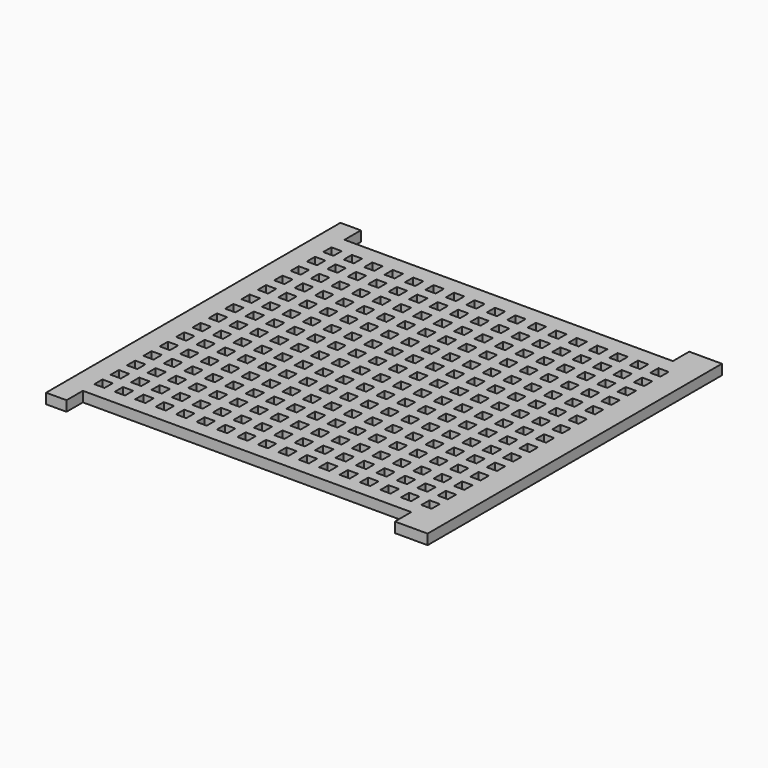
from build123d import *

# Parameters (mm, degrees)
F1_W     = 6.35
F1_H     = 6.35
F1_W_2   = 3.175
F1_H_2   = 3.175
F1_W_3   = 10.16
F2_DEPTH = 3.175


with BuildPart() as f2:
    # F1 (on Top) → F2 (new body)
    with BuildSketch(Plane.XY):
        with Locations((3.175, -3.175)):
            Rectangle(F1_W, F1_H)
        Polygon((0, 101.6), (0, 0), (6.35, 0), (108.3733333333, 0), (118.5333333333, 0), (118.5333333333, 101.6), (108.3733333333, 101.6), (6.35, 101.6), align=None)
        with Locations((7.9375, 6.0325)):
            Rectangle(F1_W_2, F1_H_2, mode=Mode.SUBTRACT)
        with Locations((14.2875, 6.0325)):
            Rectangle(F1_W_2, F1_H_2, mode=Mode.SUBTRACT)
        with Locations((20.6375, 6.0325)):
            Rectangle(F1_W_2, F1_H_2, mode=Mode.SUBTRACT)
        with Locations((26.9875, 6.0325)):
            Rectangle(F1_W_2, F1_H_2, mode=Mode.SUBTRACT)
        with Locations((7.9375, 12.3825)):
            Rectangle(F1_W_2, F1_H_2, mode=Mode.SUBTRACT)
        with Locations((14.2875, 12.3825)):
            Rectangle(F1_W_2, F1_H_2, mode=Mode.SUBTRACT)
        with Locations((7.9375, 18.7325)):
            Rectangle(F1_W_2, F1_H_2, mode=Mode.SUBTRACT)
        with Locations((14.2875, 18.7325)):
            Rectangle(F1_W_2, F1_H_2, mode=Mode.SUBTRACT)
        with Locations((20.6375, 12.3825)):
            Rectangle(F1_W_2, F1_H_2, mode=Mode.SUBTRACT)
        with Locations((26.9875, 12.3825)):
            Rectangle(F1_W_2, F1_H_2, mode=Mode.SUBTRACT)
        with Locations((20.6375, 18.7325)):
            Rectangle(F1_W_2, F1_H_2, mode=Mode.SUBTRACT)
        with Locations((26.9875, 18.7325)):
            Rectangle(F1_W_2, F1_H_2, mode=Mode.SUBTRACT)
        with Locations((33.3375, 6.0325)):
            Rectangle(F1_W_2, F1_H_2, mode=Mode.SUBTRACT)
        with Locations((39.6875, 6.0325)):
            Rectangle(F1_W_2, F1_H_2, mode=Mode.SUBTRACT)
        with Locations((46.0375, 6.0325)):
            Rectangle(F1_W_2, F1_H_2, mode=Mode.SUBTRACT)
        with Locations((52.3875, 6.0325)):
            Rectangle(F1_W_2, F1_H_2, mode=Mode.SUBTRACT)
        with Locations((58.7375, 6.0325)):
            Rectangle(F1_W_2, F1_H_2, mode=Mode.SUBTRACT)
        with Locations((33.3375, 12.3825)):
            Rectangle(F1_W_2, F1_H_2, mode=Mode.SUBTRACT)
        with Locations((39.6875, 12.3825)):
            Rectangle(F1_W_2, F1_H_2, mode=Mode.SUBTRACT)
        with Locations((33.3375, 18.7325)):
            Rectangle(F1_W_2, F1_H_2, mode=Mode.SUBTRACT)
        with Locations((39.6875, 18.7325)):
            Rectangle(F1_W_2, F1_H_2, mode=Mode.SUBTRACT)
        with Locations((46.0375, 12.3825)):
            Rectangle(F1_W_2, F1_H_2, mode=Mode.SUBTRACT)
        with Locations((52.3875, 12.3825)):
            Rectangle(F1_W_2, F1_H_2, mode=Mode.SUBTRACT)
        with Locations((58.7375, 12.3825)):
            Rectangle(F1_W_2, F1_H_2, mode=Mode.SUBTRACT)
        with Locations((46.0375, 18.7325)):
            Rectangle(F1_W_2, F1_H_2, mode=Mode.SUBTRACT)
        with Locations((52.3875, 18.7325)):
            Rectangle(F1_W_2, F1_H_2, mode=Mode.SUBTRACT)
        with Locations((58.7375, 18.7325)):
            Rectangle(F1_W_2, F1_H_2, mode=Mode.SUBTRACT)
        with Locations((7.9375, 25.0825)):
            Rectangle(F1_W_2, F1_H_2, mode=Mode.SUBTRACT)
        with Locations((14.2875, 25.0825)):
            Rectangle(F1_W_2, F1_H_2, mode=Mode.SUBTRACT)
        with Locations((7.9375, 31.4325)):
            Rectangle(F1_W_2, F1_H_2, mode=Mode.SUBTRACT)
        with Locations((14.2875, 31.4325)):
            Rectangle(F1_W_2, F1_H_2, mode=Mode.SUBTRACT)
        with Locations((20.6375, 25.0825)):
            Rectangle(F1_W_2, F1_H_2, mode=Mode.SUBTRACT)
        with Locations((26.9875, 25.0825)):
            Rectangle(F1_W_2, F1_H_2, mode=Mode.SUBTRACT)
        with Locations((20.6375, 31.4325)):
            Rectangle(F1_W_2, F1_H_2, mode=Mode.SUBTRACT)
        with Locations((26.9875, 31.4325)):
            Rectangle(F1_W_2, F1_H_2, mode=Mode.SUBTRACT)
        with Locations((7.9375, 37.7825)):
            Rectangle(F1_W_2, F1_H_2, mode=Mode.SUBTRACT)
        with Locations((14.2875, 37.7825)):
            Rectangle(F1_W_2, F1_H_2, mode=Mode.SUBTRACT)
        with Locations((7.9375, 44.1325)):
            Rectangle(F1_W_2, F1_H_2, mode=Mode.SUBTRACT)
        with Locations((14.2875, 44.1325)):
            Rectangle(F1_W_2, F1_H_2, mode=Mode.SUBTRACT)
        with Locations((7.9375, 50.4825)):
            Rectangle(F1_W_2, F1_H_2, mode=Mode.SUBTRACT)
        with Locations((14.2875, 50.4825)):
            Rectangle(F1_W_2, F1_H_2, mode=Mode.SUBTRACT)
        with Locations((20.6375, 37.7825)):
            Rectangle(F1_W_2, F1_H_2, mode=Mode.SUBTRACT)
        with Locations((26.9875, 37.7825)):
            Rectangle(F1_W_2, F1_H_2, mode=Mode.SUBTRACT)
        with Locations((20.6375, 44.1325)):
            Rectangle(F1_W_2, F1_H_2, mode=Mode.SUBTRACT)
        with Locations((20.6375, 50.4825)):
            Rectangle(F1_W_2, F1_H_2, mode=Mode.SUBTRACT)
        with Locations((26.9875, 44.1325)):
            Rectangle(F1_W_2, F1_H_2, mode=Mode.SUBTRACT)
        with Locations((26.9875, 50.4825)):
            Rectangle(F1_W_2, F1_H_2, mode=Mode.SUBTRACT)
        with Locations((33.3375, 25.0825)):
            Rectangle(F1_W_2, F1_H_2, mode=Mode.SUBTRACT)
        with Locations((39.6875, 25.0825)):
            Rectangle(F1_W_2, F1_H_2, mode=Mode.SUBTRACT)
        with Locations((33.3375, 31.4325)):
            Rectangle(F1_W_2, F1_H_2, mode=Mode.SUBTRACT)
        with Locations((39.6875, 31.4325)):
            Rectangle(F1_W_2, F1_H_2, mode=Mode.SUBTRACT)
        with Locations((46.0375, 25.0825)):
            Rectangle(F1_W_2, F1_H_2, mode=Mode.SUBTRACT)
        with Locations((52.3875, 25.0825)):
            Rectangle(F1_W_2, F1_H_2, mode=Mode.SUBTRACT)
        with Locations((58.7375, 25.0825)):
            Rectangle(F1_W_2, F1_H_2, mode=Mode.SUBTRACT)
        with Locations((46.0375, 31.4325)):
            Rectangle(F1_W_2, F1_H_2, mode=Mode.SUBTRACT)
        with Locations((52.3875, 31.4325)):
            Rectangle(F1_W_2, F1_H_2, mode=Mode.SUBTRACT)
        with Locations((58.7375, 31.4325)):
            Rectangle(F1_W_2, F1_H_2, mode=Mode.SUBTRACT)
        with Locations((33.3375, 37.7825)):
            Rectangle(F1_W_2, F1_H_2, mode=Mode.SUBTRACT)
        with Locations((39.6875, 37.7825)):
            Rectangle(F1_W_2, F1_H_2, mode=Mode.SUBTRACT)
        with Locations((33.3375, 44.1325)):
            Rectangle(F1_W_2, F1_H_2, mode=Mode.SUBTRACT)
        with Locations((33.3375, 50.4825)):
            Rectangle(F1_W_2, F1_H_2, mode=Mode.SUBTRACT)
        with Locations((39.6875, 44.1325)):
            Rectangle(F1_W_2, F1_H_2, mode=Mode.SUBTRACT)
        with Locations((39.6875, 50.4825)):
            Rectangle(F1_W_2, F1_H_2, mode=Mode.SUBTRACT)
        with Locations((46.0375, 37.7825)):
            Rectangle(F1_W_2, F1_H_2, mode=Mode.SUBTRACT)
        with Locations((52.3875, 37.7825)):
            Rectangle(F1_W_2, F1_H_2, mode=Mode.SUBTRACT)
        with Locations((58.7375, 37.7825)):
            Rectangle(F1_W_2, F1_H_2, mode=Mode.SUBTRACT)
        with Locations((46.0375, 44.1325)):
            Rectangle(F1_W_2, F1_H_2, mode=Mode.SUBTRACT)
        with Locations((46.0375, 50.4825)):
            Rectangle(F1_W_2, F1_H_2, mode=Mode.SUBTRACT)
        with Locations((52.3875, 44.1325)):
            Rectangle(F1_W_2, F1_H_2, mode=Mode.SUBTRACT)
        with Locations((58.7375, 44.1325)):
            Rectangle(F1_W_2, F1_H_2, mode=Mode.SUBTRACT)
        with Locations((52.3875, 50.4825)):
            Rectangle(F1_W_2, F1_H_2, mode=Mode.SUBTRACT)
        with Locations((58.7375, 50.4825)):
            Rectangle(F1_W_2, F1_H_2, mode=Mode.SUBTRACT)
        with Locations((65.0875, 6.0325)):
            Rectangle(F1_W_2, F1_H_2, mode=Mode.SUBTRACT)
        with Locations((71.4375, 6.0325)):
            Rectangle(F1_W_2, F1_H_2, mode=Mode.SUBTRACT)
        with Locations((77.7875, 6.0325)):
            Rectangle(F1_W_2, F1_H_2, mode=Mode.SUBTRACT)
        with Locations((84.1375, 6.0325)):
            Rectangle(F1_W_2, F1_H_2, mode=Mode.SUBTRACT)
        with Locations((65.0875, 12.3825)):
            Rectangle(F1_W_2, F1_H_2, mode=Mode.SUBTRACT)
        with Locations((71.4375, 12.3825)):
            Rectangle(F1_W_2, F1_H_2, mode=Mode.SUBTRACT)
        with Locations((65.0875, 18.7325)):
            Rectangle(F1_W_2, F1_H_2, mode=Mode.SUBTRACT)
        with Locations((71.4375, 18.7325)):
            Rectangle(F1_W_2, F1_H_2, mode=Mode.SUBTRACT)
        with Locations((77.7875, 12.3825)):
            Rectangle(F1_W_2, F1_H_2, mode=Mode.SUBTRACT)
        with Locations((84.1375, 12.3825)):
            Rectangle(F1_W_2, F1_H_2, mode=Mode.SUBTRACT)
        with Locations((77.7875, 18.7325)):
            Rectangle(F1_W_2, F1_H_2, mode=Mode.SUBTRACT)
        with Locations((84.1375, 18.7325)):
            Rectangle(F1_W_2, F1_H_2, mode=Mode.SUBTRACT)
        with Locations((90.4875, 6.0325)):
            Rectangle(F1_W_2, F1_H_2, mode=Mode.SUBTRACT)
        with Locations((96.8375, 6.0325)):
            Rectangle(F1_W_2, F1_H_2, mode=Mode.SUBTRACT)
        with Locations((103.1875, 6.0325)):
            Rectangle(F1_W_2, F1_H_2, mode=Mode.SUBTRACT)
        with Locations((109.5375, 6.0325)):
            Rectangle(F1_W_2, F1_H_2, mode=Mode.SUBTRACT)
        with Locations((90.4875, 12.3825)):
            Rectangle(F1_W_2, F1_H_2, mode=Mode.SUBTRACT)
        with Locations((96.8375, 12.3825)):
            Rectangle(F1_W_2, F1_H_2, mode=Mode.SUBTRACT)
        with Locations((103.1875, 12.3825)):
            Rectangle(F1_W_2, F1_H_2, mode=Mode.SUBTRACT)
        with Locations((90.4875, 18.7325)):
            Rectangle(F1_W_2, F1_H_2, mode=Mode.SUBTRACT)
        with Locations((96.8375, 18.7325)):
            Rectangle(F1_W_2, F1_H_2, mode=Mode.SUBTRACT)
        with Locations((103.1875, 18.7325)):
            Rectangle(F1_W_2, F1_H_2, mode=Mode.SUBTRACT)
        with Locations((109.5375, 12.3825)):
            Rectangle(F1_W_2, F1_H_2, mode=Mode.SUBTRACT)
        with Locations((109.5375, 18.7325)):
            Rectangle(F1_W_2, F1_H_2, mode=Mode.SUBTRACT)
        with Locations((65.0875, 25.0825)):
            Rectangle(F1_W_2, F1_H_2, mode=Mode.SUBTRACT)
        with Locations((71.4375, 25.0825)):
            Rectangle(F1_W_2, F1_H_2, mode=Mode.SUBTRACT)
        with Locations((65.0875, 31.4325)):
            Rectangle(F1_W_2, F1_H_2, mode=Mode.SUBTRACT)
        with Locations((71.4375, 31.4325)):
            Rectangle(F1_W_2, F1_H_2, mode=Mode.SUBTRACT)
        with Locations((77.7875, 25.0825)):
            Rectangle(F1_W_2, F1_H_2, mode=Mode.SUBTRACT)
        with Locations((84.1375, 25.0825)):
            Rectangle(F1_W_2, F1_H_2, mode=Mode.SUBTRACT)
        with Locations((77.7875, 31.4325)):
            Rectangle(F1_W_2, F1_H_2, mode=Mode.SUBTRACT)
        with Locations((84.1375, 31.4325)):
            Rectangle(F1_W_2, F1_H_2, mode=Mode.SUBTRACT)
        with Locations((65.0875, 37.7825)):
            Rectangle(F1_W_2, F1_H_2, mode=Mode.SUBTRACT)
        with Locations((71.4375, 37.7825)):
            Rectangle(F1_W_2, F1_H_2, mode=Mode.SUBTRACT)
        with Locations((65.0875, 44.1325)):
            Rectangle(F1_W_2, F1_H_2, mode=Mode.SUBTRACT)
        with Locations((65.0875, 50.4825)):
            Rectangle(F1_W_2, F1_H_2, mode=Mode.SUBTRACT)
        with Locations((71.4375, 44.1325)):
            Rectangle(F1_W_2, F1_H_2, mode=Mode.SUBTRACT)
        with Locations((71.4375, 50.4825)):
            Rectangle(F1_W_2, F1_H_2, mode=Mode.SUBTRACT)
        with Locations((77.7875, 37.7825)):
            Rectangle(F1_W_2, F1_H_2, mode=Mode.SUBTRACT)
        with Locations((84.1375, 37.7825)):
            Rectangle(F1_W_2, F1_H_2, mode=Mode.SUBTRACT)
        with Locations((77.7875, 44.1325)):
            Rectangle(F1_W_2, F1_H_2, mode=Mode.SUBTRACT)
        with Locations((77.7875, 50.4825)):
            Rectangle(F1_W_2, F1_H_2, mode=Mode.SUBTRACT)
        with Locations((84.1375, 44.1325)):
            Rectangle(F1_W_2, F1_H_2, mode=Mode.SUBTRACT)
        with Locations((84.1375, 50.4825)):
            Rectangle(F1_W_2, F1_H_2, mode=Mode.SUBTRACT)
        with Locations((90.4875, 25.0825)):
            Rectangle(F1_W_2, F1_H_2, mode=Mode.SUBTRACT)
        with Locations((96.8375, 25.0825)):
            Rectangle(F1_W_2, F1_H_2, mode=Mode.SUBTRACT)
        with Locations((103.1875, 25.0825)):
            Rectangle(F1_W_2, F1_H_2, mode=Mode.SUBTRACT)
        with Locations((90.4875, 31.4325)):
            Rectangle(F1_W_2, F1_H_2, mode=Mode.SUBTRACT)
        with Locations((96.8375, 31.4325)):
            Rectangle(F1_W_2, F1_H_2, mode=Mode.SUBTRACT)
        with Locations((103.1875, 31.4325)):
            Rectangle(F1_W_2, F1_H_2, mode=Mode.SUBTRACT)
        with Locations((109.5375, 25.0825)):
            Rectangle(F1_W_2, F1_H_2, mode=Mode.SUBTRACT)
        with Locations((109.5375, 31.4325)):
            Rectangle(F1_W_2, F1_H_2, mode=Mode.SUBTRACT)
        with Locations((90.4875, 37.7825)):
            Rectangle(F1_W_2, F1_H_2, mode=Mode.SUBTRACT)
        with Locations((96.8375, 37.7825)):
            Rectangle(F1_W_2, F1_H_2, mode=Mode.SUBTRACT)
        with Locations((103.1875, 37.7825)):
            Rectangle(F1_W_2, F1_H_2, mode=Mode.SUBTRACT)
        with Locations((90.4875, 44.1325)):
            Rectangle(F1_W_2, F1_H_2, mode=Mode.SUBTRACT)
        with Locations((90.4875, 50.4825)):
            Rectangle(F1_W_2, F1_H_2, mode=Mode.SUBTRACT)
        with Locations((96.8375, 44.1325)):
            Rectangle(F1_W_2, F1_H_2, mode=Mode.SUBTRACT)
        with Locations((103.1875, 44.1325)):
            Rectangle(F1_W_2, F1_H_2, mode=Mode.SUBTRACT)
        with Locations((96.8375, 50.4825)):
            Rectangle(F1_W_2, F1_H_2, mode=Mode.SUBTRACT)
        with Locations((103.1875, 50.4825)):
            Rectangle(F1_W_2, F1_H_2, mode=Mode.SUBTRACT)
        with Locations((109.5375, 37.7825)):
            Rectangle(F1_W_2, F1_H_2, mode=Mode.SUBTRACT)
        with Locations((109.5375, 44.1325)):
            Rectangle(F1_W_2, F1_H_2, mode=Mode.SUBTRACT)
        with Locations((109.5375, 50.4825)):
            Rectangle(F1_W_2, F1_H_2, mode=Mode.SUBTRACT)
        with Locations((7.9375, 56.8325)):
            Rectangle(F1_W_2, F1_H_2, mode=Mode.SUBTRACT)
        with Locations((14.2875, 56.8325)):
            Rectangle(F1_W_2, F1_H_2, mode=Mode.SUBTRACT)
        with Locations((7.9375, 63.1825)):
            Rectangle(F1_W_2, F1_H_2, mode=Mode.SUBTRACT)
        with Locations((14.2875, 63.1825)):
            Rectangle(F1_W_2, F1_H_2, mode=Mode.SUBTRACT)
        with Locations((20.6375, 56.8325)):
            Rectangle(F1_W_2, F1_H_2, mode=Mode.SUBTRACT)
        with Locations((26.9875, 56.8325)):
            Rectangle(F1_W_2, F1_H_2, mode=Mode.SUBTRACT)
        with Locations((20.6375, 63.1825)):
            Rectangle(F1_W_2, F1_H_2, mode=Mode.SUBTRACT)
        with Locations((26.9875, 63.1825)):
            Rectangle(F1_W_2, F1_H_2, mode=Mode.SUBTRACT)
        with Locations((7.9375, 69.5325)):
            Rectangle(F1_W_2, F1_H_2, mode=Mode.SUBTRACT)
        with Locations((14.2875, 69.5325)):
            Rectangle(F1_W_2, F1_H_2, mode=Mode.SUBTRACT)
        with Locations((7.9375, 75.8825)):
            Rectangle(F1_W_2, F1_H_2, mode=Mode.SUBTRACT)
        with Locations((14.2875, 75.8825)):
            Rectangle(F1_W_2, F1_H_2, mode=Mode.SUBTRACT)
        with Locations((20.6375, 69.5325)):
            Rectangle(F1_W_2, F1_H_2, mode=Mode.SUBTRACT)
        with Locations((26.9875, 69.5325)):
            Rectangle(F1_W_2, F1_H_2, mode=Mode.SUBTRACT)
        with Locations((20.6375, 75.8825)):
            Rectangle(F1_W_2, F1_H_2, mode=Mode.SUBTRACT)
        with Locations((26.9875, 75.8825)):
            Rectangle(F1_W_2, F1_H_2, mode=Mode.SUBTRACT)
        with Locations((33.3375, 56.8325)):
            Rectangle(F1_W_2, F1_H_2, mode=Mode.SUBTRACT)
        with Locations((39.6875, 56.8325)):
            Rectangle(F1_W_2, F1_H_2, mode=Mode.SUBTRACT)
        with Locations((33.3375, 63.1825)):
            Rectangle(F1_W_2, F1_H_2, mode=Mode.SUBTRACT)
        with Locations((39.6875, 63.1825)):
            Rectangle(F1_W_2, F1_H_2, mode=Mode.SUBTRACT)
        with Locations((46.0375, 56.8325)):
            Rectangle(F1_W_2, F1_H_2, mode=Mode.SUBTRACT)
        with Locations((52.3875, 56.8325)):
            Rectangle(F1_W_2, F1_H_2, mode=Mode.SUBTRACT)
        with Locations((58.7375, 56.8325)):
            Rectangle(F1_W_2, F1_H_2, mode=Mode.SUBTRACT)
        with Locations((46.0375, 63.1825)):
            Rectangle(F1_W_2, F1_H_2, mode=Mode.SUBTRACT)
        with Locations((52.3875, 63.1825)):
            Rectangle(F1_W_2, F1_H_2, mode=Mode.SUBTRACT)
        with Locations((58.7375, 63.1825)):
            Rectangle(F1_W_2, F1_H_2, mode=Mode.SUBTRACT)
        with Locations((33.3375, 69.5325)):
            Rectangle(F1_W_2, F1_H_2, mode=Mode.SUBTRACT)
        with Locations((39.6875, 69.5325)):
            Rectangle(F1_W_2, F1_H_2, mode=Mode.SUBTRACT)
        with Locations((33.3375, 75.8825)):
            Rectangle(F1_W_2, F1_H_2, mode=Mode.SUBTRACT)
        with Locations((39.6875, 75.8825)):
            Rectangle(F1_W_2, F1_H_2, mode=Mode.SUBTRACT)
        with Locations((46.0375, 69.5325)):
            Rectangle(F1_W_2, F1_H_2, mode=Mode.SUBTRACT)
        with Locations((52.3875, 69.5325)):
            Rectangle(F1_W_2, F1_H_2, mode=Mode.SUBTRACT)
        with Locations((58.7375, 69.5325)):
            Rectangle(F1_W_2, F1_H_2, mode=Mode.SUBTRACT)
        with Locations((46.0375, 75.8825)):
            Rectangle(F1_W_2, F1_H_2, mode=Mode.SUBTRACT)
        with Locations((52.3875, 75.8825)):
            Rectangle(F1_W_2, F1_H_2, mode=Mode.SUBTRACT)
        with Locations((58.7375, 75.8825)):
            Rectangle(F1_W_2, F1_H_2, mode=Mode.SUBTRACT)
        with Locations((7.9375, 82.2325)):
            Rectangle(F1_W_2, F1_H_2, mode=Mode.SUBTRACT)
        with Locations((14.2875, 82.2325)):
            Rectangle(F1_W_2, F1_H_2, mode=Mode.SUBTRACT)
        with Locations((7.9375, 88.5825)):
            Rectangle(F1_W_2, F1_H_2, mode=Mode.SUBTRACT)
        with Locations((14.2875, 88.5825)):
            Rectangle(F1_W_2, F1_H_2, mode=Mode.SUBTRACT)
        with Locations((20.6375, 82.2325)):
            Rectangle(F1_W_2, F1_H_2, mode=Mode.SUBTRACT)
        with Locations((26.9875, 82.2325)):
            Rectangle(F1_W_2, F1_H_2, mode=Mode.SUBTRACT)
        with Locations((20.6375, 88.5825)):
            Rectangle(F1_W_2, F1_H_2, mode=Mode.SUBTRACT)
        with Locations((26.9875, 88.5825)):
            Rectangle(F1_W_2, F1_H_2, mode=Mode.SUBTRACT)
        with Locations((7.9375, 94.9325)):
            Rectangle(F1_W_2, F1_H_2, mode=Mode.SUBTRACT)
        with Locations((14.2875, 94.9325)):
            Rectangle(F1_W_2, F1_H_2, mode=Mode.SUBTRACT)
        with Locations((20.6375, 94.9325)):
            Rectangle(F1_W_2, F1_H_2, mode=Mode.SUBTRACT)
        with Locations((26.9875, 94.9325)):
            Rectangle(F1_W_2, F1_H_2, mode=Mode.SUBTRACT)
        with Locations((33.3375, 82.2325)):
            Rectangle(F1_W_2, F1_H_2, mode=Mode.SUBTRACT)
        with Locations((39.6875, 82.2325)):
            Rectangle(F1_W_2, F1_H_2, mode=Mode.SUBTRACT)
        with Locations((33.3375, 88.5825)):
            Rectangle(F1_W_2, F1_H_2, mode=Mode.SUBTRACT)
        with Locations((39.6875, 88.5825)):
            Rectangle(F1_W_2, F1_H_2, mode=Mode.SUBTRACT)
        with Locations((46.0375, 82.2325)):
            Rectangle(F1_W_2, F1_H_2, mode=Mode.SUBTRACT)
        with Locations((52.3875, 82.2325)):
            Rectangle(F1_W_2, F1_H_2, mode=Mode.SUBTRACT)
        with Locations((58.7375, 82.2325)):
            Rectangle(F1_W_2, F1_H_2, mode=Mode.SUBTRACT)
        with Locations((46.0375, 88.5825)):
            Rectangle(F1_W_2, F1_H_2, mode=Mode.SUBTRACT)
        with Locations((52.3875, 88.5825)):
            Rectangle(F1_W_2, F1_H_2, mode=Mode.SUBTRACT)
        with Locations((58.7375, 88.5825)):
            Rectangle(F1_W_2, F1_H_2, mode=Mode.SUBTRACT)
        with Locations((33.3375, 94.9325)):
            Rectangle(F1_W_2, F1_H_2, mode=Mode.SUBTRACT)
        with Locations((39.6875, 94.9325)):
            Rectangle(F1_W_2, F1_H_2, mode=Mode.SUBTRACT)
        with Locations((46.0375, 94.9325)):
            Rectangle(F1_W_2, F1_H_2, mode=Mode.SUBTRACT)
        with Locations((52.3875, 94.9325)):
            Rectangle(F1_W_2, F1_H_2, mode=Mode.SUBTRACT)
        with Locations((58.7375, 94.9325)):
            Rectangle(F1_W_2, F1_H_2, mode=Mode.SUBTRACT)
        with Locations((65.0875, 56.8325)):
            Rectangle(F1_W_2, F1_H_2, mode=Mode.SUBTRACT)
        with Locations((71.4375, 56.8325)):
            Rectangle(F1_W_2, F1_H_2, mode=Mode.SUBTRACT)
        with Locations((65.0875, 63.1825)):
            Rectangle(F1_W_2, F1_H_2, mode=Mode.SUBTRACT)
        with Locations((71.4375, 63.1825)):
            Rectangle(F1_W_2, F1_H_2, mode=Mode.SUBTRACT)
        with Locations((77.7875, 56.8325)):
            Rectangle(F1_W_2, F1_H_2, mode=Mode.SUBTRACT)
        with Locations((84.1375, 56.8325)):
            Rectangle(F1_W_2, F1_H_2, mode=Mode.SUBTRACT)
        with Locations((77.7875, 63.1825)):
            Rectangle(F1_W_2, F1_H_2, mode=Mode.SUBTRACT)
        with Locations((84.1375, 63.1825)):
            Rectangle(F1_W_2, F1_H_2, mode=Mode.SUBTRACT)
        with Locations((65.0875, 69.5325)):
            Rectangle(F1_W_2, F1_H_2, mode=Mode.SUBTRACT)
        with Locations((71.4375, 69.5325)):
            Rectangle(F1_W_2, F1_H_2, mode=Mode.SUBTRACT)
        with Locations((65.0875, 75.8825)):
            Rectangle(F1_W_2, F1_H_2, mode=Mode.SUBTRACT)
        with Locations((71.4375, 75.8825)):
            Rectangle(F1_W_2, F1_H_2, mode=Mode.SUBTRACT)
        with Locations((77.7875, 69.5325)):
            Rectangle(F1_W_2, F1_H_2, mode=Mode.SUBTRACT)
        with Locations((84.1375, 69.5325)):
            Rectangle(F1_W_2, F1_H_2, mode=Mode.SUBTRACT)
        with Locations((77.7875, 75.8825)):
            Rectangle(F1_W_2, F1_H_2, mode=Mode.SUBTRACT)
        with Locations((84.1375, 75.8825)):
            Rectangle(F1_W_2, F1_H_2, mode=Mode.SUBTRACT)
        with Locations((90.4875, 56.8325)):
            Rectangle(F1_W_2, F1_H_2, mode=Mode.SUBTRACT)
        with Locations((96.8375, 56.8325)):
            Rectangle(F1_W_2, F1_H_2, mode=Mode.SUBTRACT)
        with Locations((103.1875, 56.8325)):
            Rectangle(F1_W_2, F1_H_2, mode=Mode.SUBTRACT)
        with Locations((90.4875, 63.1825)):
            Rectangle(F1_W_2, F1_H_2, mode=Mode.SUBTRACT)
        with Locations((96.8375, 63.1825)):
            Rectangle(F1_W_2, F1_H_2, mode=Mode.SUBTRACT)
        with Locations((103.1875, 63.1825)):
            Rectangle(F1_W_2, F1_H_2, mode=Mode.SUBTRACT)
        with Locations((109.5375, 56.8325)):
            Rectangle(F1_W_2, F1_H_2, mode=Mode.SUBTRACT)
        with Locations((109.5375, 63.1825)):
            Rectangle(F1_W_2, F1_H_2, mode=Mode.SUBTRACT)
        with Locations((90.4875, 69.5325)):
            Rectangle(F1_W_2, F1_H_2, mode=Mode.SUBTRACT)
        with Locations((96.8375, 69.5325)):
            Rectangle(F1_W_2, F1_H_2, mode=Mode.SUBTRACT)
        with Locations((103.1875, 69.5325)):
            Rectangle(F1_W_2, F1_H_2, mode=Mode.SUBTRACT)
        with Locations((90.4875, 75.8825)):
            Rectangle(F1_W_2, F1_H_2, mode=Mode.SUBTRACT)
        with Locations((96.8375, 75.8825)):
            Rectangle(F1_W_2, F1_H_2, mode=Mode.SUBTRACT)
        with Locations((103.1875, 75.8825)):
            Rectangle(F1_W_2, F1_H_2, mode=Mode.SUBTRACT)
        with Locations((109.5375, 69.5325)):
            Rectangle(F1_W_2, F1_H_2, mode=Mode.SUBTRACT)
        with Locations((109.5375, 75.8825)):
            Rectangle(F1_W_2, F1_H_2, mode=Mode.SUBTRACT)
        with Locations((65.0875, 82.2325)):
            Rectangle(F1_W_2, F1_H_2, mode=Mode.SUBTRACT)
        with Locations((71.4375, 82.2325)):
            Rectangle(F1_W_2, F1_H_2, mode=Mode.SUBTRACT)
        with Locations((65.0875, 88.5825)):
            Rectangle(F1_W_2, F1_H_2, mode=Mode.SUBTRACT)
        with Locations((71.4375, 88.5825)):
            Rectangle(F1_W_2, F1_H_2, mode=Mode.SUBTRACT)
        with Locations((77.7875, 82.2325)):
            Rectangle(F1_W_2, F1_H_2, mode=Mode.SUBTRACT)
        with Locations((84.1375, 82.2325)):
            Rectangle(F1_W_2, F1_H_2, mode=Mode.SUBTRACT)
        with Locations((77.7875, 88.5825)):
            Rectangle(F1_W_2, F1_H_2, mode=Mode.SUBTRACT)
        with Locations((84.1375, 88.5825)):
            Rectangle(F1_W_2, F1_H_2, mode=Mode.SUBTRACT)
        with Locations((65.0875, 94.9325)):
            Rectangle(F1_W_2, F1_H_2, mode=Mode.SUBTRACT)
        with Locations((71.4375, 94.9325)):
            Rectangle(F1_W_2, F1_H_2, mode=Mode.SUBTRACT)
        with Locations((77.7875, 94.9325)):
            Rectangle(F1_W_2, F1_H_2, mode=Mode.SUBTRACT)
        with Locations((84.1375, 94.9325)):
            Rectangle(F1_W_2, F1_H_2, mode=Mode.SUBTRACT)
        with Locations((90.4875, 82.2325)):
            Rectangle(F1_W_2, F1_H_2, mode=Mode.SUBTRACT)
        with Locations((96.8375, 82.2325)):
            Rectangle(F1_W_2, F1_H_2, mode=Mode.SUBTRACT)
        with Locations((103.1875, 82.2325)):
            Rectangle(F1_W_2, F1_H_2, mode=Mode.SUBTRACT)
        with Locations((90.4875, 88.5825)):
            Rectangle(F1_W_2, F1_H_2, mode=Mode.SUBTRACT)
        with Locations((96.8375, 88.5825)):
            Rectangle(F1_W_2, F1_H_2, mode=Mode.SUBTRACT)
        with Locations((103.1875, 88.5825)):
            Rectangle(F1_W_2, F1_H_2, mode=Mode.SUBTRACT)
        with Locations((109.5375, 82.2325)):
            Rectangle(F1_W_2, F1_H_2, mode=Mode.SUBTRACT)
        with Locations((109.5375, 88.5825)):
            Rectangle(F1_W_2, F1_H_2, mode=Mode.SUBTRACT)
        with Locations((90.4875, 94.9325)):
            Rectangle(F1_W_2, F1_H_2, mode=Mode.SUBTRACT)
        with Locations((96.8375, 94.9325)):
            Rectangle(F1_W_2, F1_H_2, mode=Mode.SUBTRACT)
        with Locations((103.1875, 94.9325)):
            Rectangle(F1_W_2, F1_H_2, mode=Mode.SUBTRACT)
        with Locations((109.5375, 94.9325)):
            Rectangle(F1_W_2, F1_H_2, mode=Mode.SUBTRACT)
        with Locations((113.4533333333, -3.175)):
            Rectangle(F1_W_3, F1_H)
        with Locations((3.175, 104.775)):
            Rectangle(F1_W, F1_H)
        with Locations((113.4533333333, 104.775)):
            Rectangle(F1_W_3, F1_H)
    extrude(amount=F2_DEPTH)


solid = f2.part
